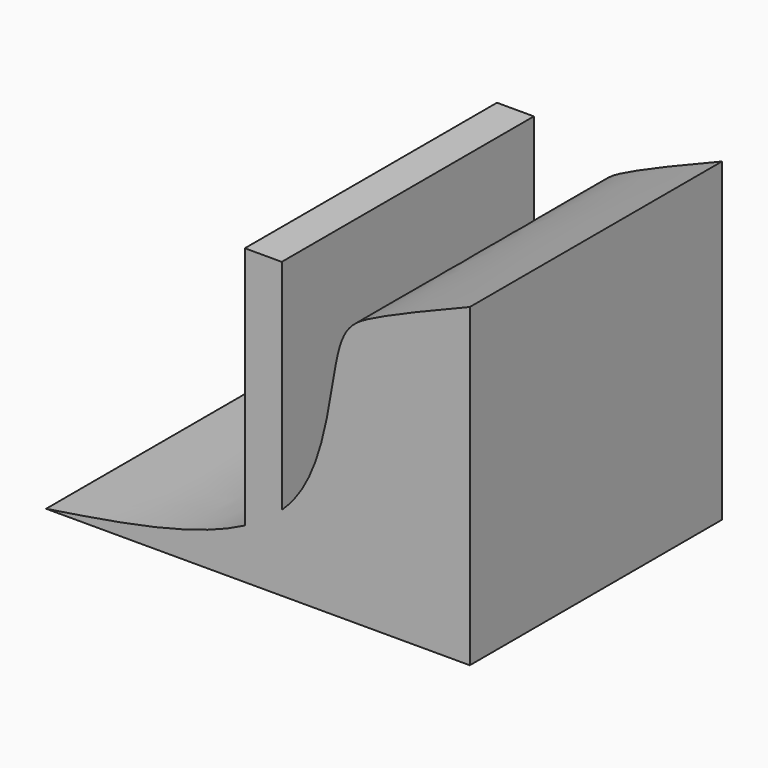
from build123d import *

# Parameters (mm, degrees)
F1_DEPTH = 76.2


with BuildPart() as f1:
    # F0 (on Front) → F1 (new body)
    with BuildSketch(Plane.XZ):
        with BuildLine():
            Line((10.0732007995, -36.263525486), (10.0732007995, -24.1993085699))
            add(Edge.make_bspline(
                [(10.0732007995, -24.1993085699), (-2.5247930618, -30.8009646223), (-20.2575772569, -33.5322450541), (-37.9903614521, -36.263525486)],
                knots=[0.7459090218, 0.7459090218, 0.7459090218, 0.7459090218, 1, 1, 1, 1], degree=3))
            Line((-37.9903614521, -36.263525486), (10.0732007995, -36.263525486))
        make_face()
        with BuildLine():
            add(Edge.make_bspline(
                [(18.9951807261, -17.9845977718), (16.45568902, -20.3836759401), (13.4487697668, -22.4304280998), (10.0732007995, -24.1993085699)],
                knots=[0.6778266247, 0.6778266247, 0.6778266247, 0.6778266247, 0.7459090218, 0.7459090218, 0.7459090218, 0.7459090218], degree=3))
            Line((18.9951807261, -17.9845977718), (18.9951807261, 34.8244979978))
            Line((18.9951807261, 34.8244979978), (10.0732007995, 34.8244979978))
            Line((10.0732007995, 34.8244979978), (10.0732007995, -24.1993085699))
        make_face()
        with BuildLine():
            Line((18.9951807261, -36.263525486), (18.9951807261, -17.9845977718))
            add(Edge.make_bspline(
                [(18.9951807261, -17.9845977718), (16.45568902, -20.3836759401), (13.4487697668, -22.4304280998), (10.0732007995, -24.1993085699)],
                knots=[0.6778266247, 0.6778266247, 0.6778266247, 0.6778266247, 0.7459090218, 0.7459090218, 0.7459090218, 0.7459090218], degree=3))
            Line((10.0732007995, -24.1993085699), (10.0732007995, -36.263525486))
            Line((10.0732007995, -36.263525486), (18.9951807261, -36.263525486))
        make_face()
        with BuildLine():
            Line((64.4684880972, -36.263525486), (64.4684880972, 40.0050021708))
            add(Edge.make_bspline(
                [(64.4684880972, 40.0050021708), (55.5201545747, 36.3871761167), (40.8252572156, 30.446004792), (30.4677759605, 23.7600779361), (30.7107370158, -5.1142881868), (20.267965794, -16.782187517), (18.9951807261, -17.9845977718)],
                knots=[0, 0, 0, 0, 0.2249487847, 0.3694094877, 0.6437039464, 0.6778266247, 0.6778266247, 0.6778266247, 0.6778266247], degree=3))
            Line((18.9951807261, -17.9845977718), (18.9951807261, -36.263525486))
            Line((18.9951807261, -36.263525486), (64.4684880972, -36.263525486))
        make_face()
    extrude(amount=F1_DEPTH)


solid = f1.part
